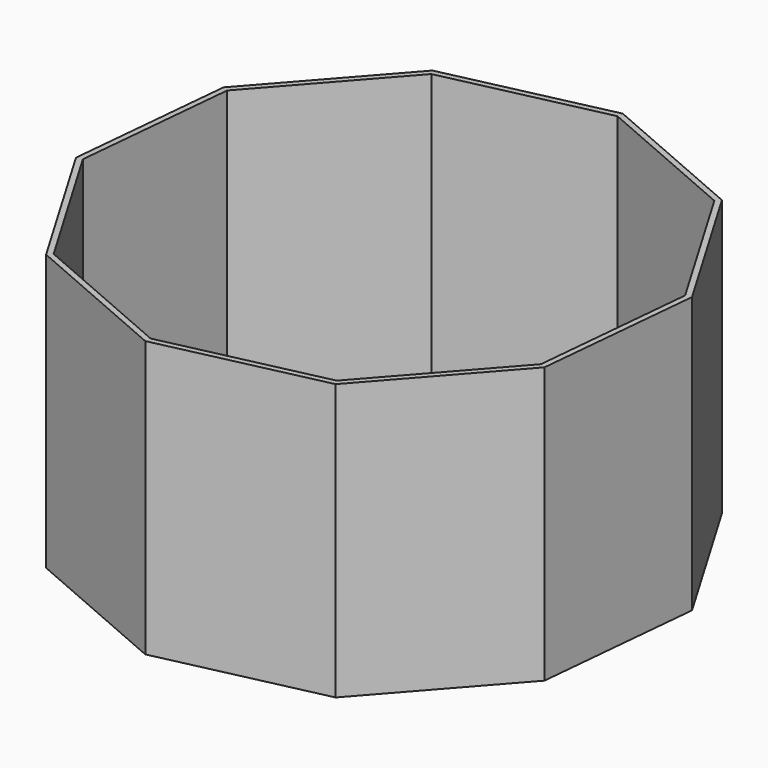
from build123d import *

# Parameters (mm, degrees)
F1_DEPTH = 122.682
F2_T     = -2.54


with BuildPart() as f1:
    # F0 (on Top) → F1 (new body)
    with BuildSketch(Plane.XY):
        Polygon((-38.383844, -96.835967), (10.351066, -41.644384), (17.337637, 31.652206), (-20.092763, 95.056997), (-87.642993, 124.351513), (-159.511162, 108.346245), (-208.246071, 53.154662), (-215.232642, -20.141928), (-177.802243, -83.546719), (-110.252012, -112.841235), align=None)
    extrude(amount=-F1_DEPTH)

    # F2
    f2_openings = [f1.faces().sort_by_distance(p)[0] for p in [
        (-98.947503, 5.755139, 0),
    ]]
    offset(amount=F2_T, openings=f2_openings)


solid = f1.part
